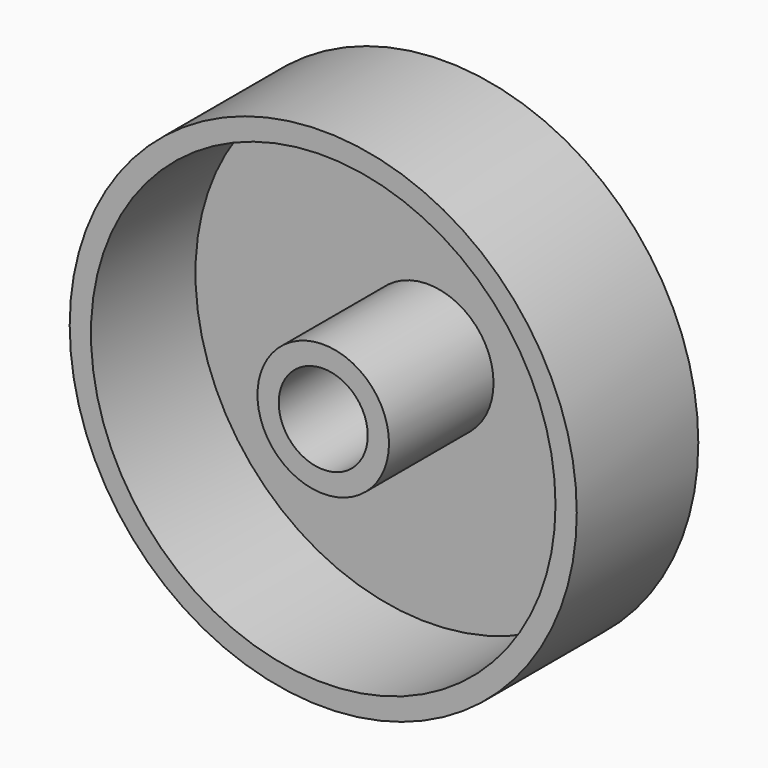
from build123d import *

# Parameters (mm, degrees)
F0_R     = 21.1963
F1_DEPTH = 12.7
F2_R     = 3.7211
F3_DEPTH = 12.701
F4_T     = -1.778


with BuildPart() as f1:
    # F0 (on Front) → F1 (new body)
    with BuildSketch(Plane.XZ):
        Circle(F0_R)
    extrude(amount=F1_DEPTH)

    # F2 (on face) → F3 (cut, through all)
    with BuildSketch(Plane.XZ.offset(12.7)):
        Circle(F2_R)
    extrude(amount=-F3_DEPTH, mode=Mode.SUBTRACT)

    # F4
    f4_openings = [f1.faces().sort_by_distance(p)[0] for p in [
        (-20.596778, -12.7, 0),
    ]]
    offset(amount=F4_T, openings=f4_openings)


solid = f1.part
